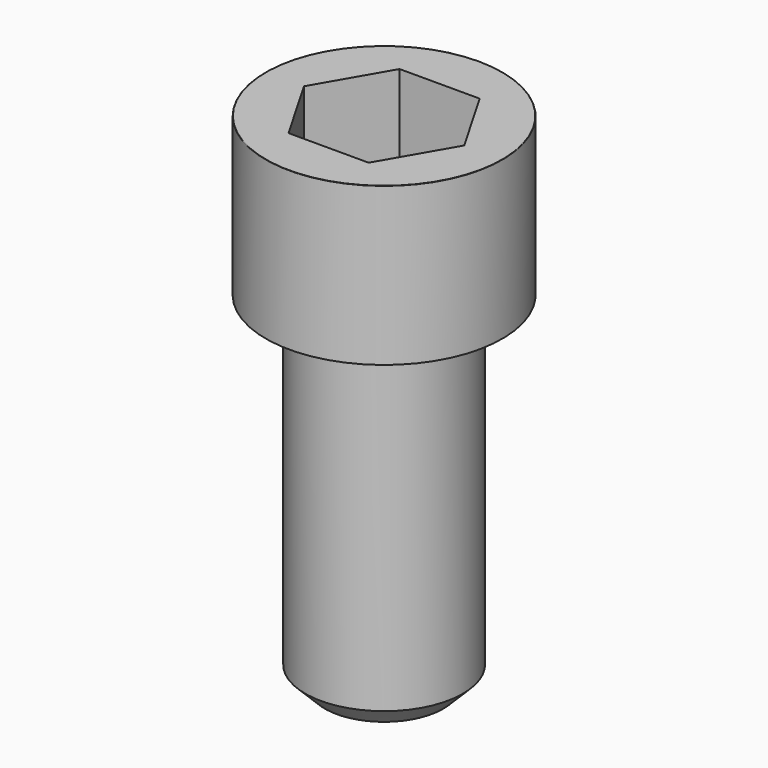
from build123d import *

# Parameters (mm, degrees)
POCKET_DEPTH = 14.08


with BuildPart() as part:
    # Sketch → Revolve (revolve)
    with BuildSketch(Plane.YZ):
        with BuildLine():
            Line((7.999, 0), (12, 0))
            Line((12, 0), (12, 15.97229))
            ThreePointArc((12, 15.97229), (11.991884, 15.991884), (11.97229, 16))
            Line((11.97229, 16), (0, 16))
            Line((0, -35), (0, 16))
            Line((6, -35), (0, -35))
            Line((8, -33), (6, -35))
            Line((8, -0.2), (8, -33))
            Line((7.999, 0), (8, -0.2))
        make_face()
    revolve(axis=Axis((0, 0, 0), (0, 0, 1)))

    # Sketch001 → Pocket (cut)
    with BuildSketch(Plane.XY.offset(16)):
        Polygon((8.129092, 0), (4.064546, 7.04), (-4.064546, 7.04), (-8.129092, 0), (-4.064546, -7.04), (4.064546, -7.04), align=None)
    extrude(amount=-POCKET_DEPTH, mode=Mode.SUBTRACT)


solid = part.part
